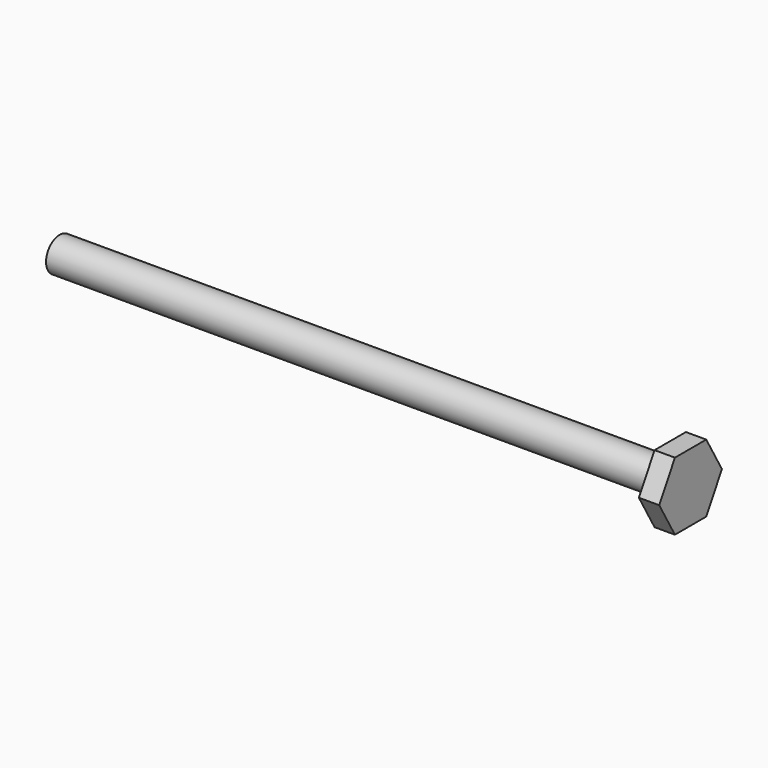
from build123d import *

# Parameters (mm, degrees)
F1_DEPTH = 3.81
F2_R     = 3.175
F3_DEPTH = 114.3


with BuildPart() as f1:
    # F0 (on Right) → F1 (new body)
    with BuildSketch(Plane.YZ):
        Polygon((-3.666174, -6.35), (3.666174, -6.35), (7.332348, 0), (3.666174, 6.35), (-3.666174, 6.35), (-7.332348, 0), align=None)
    extrude(amount=F1_DEPTH)

    # F2 (on Right) → F3 (join)
    with BuildSketch(Plane.YZ):
        Circle(F2_R)
    extrude(amount=-F3_DEPTH)


solid = f1.part
